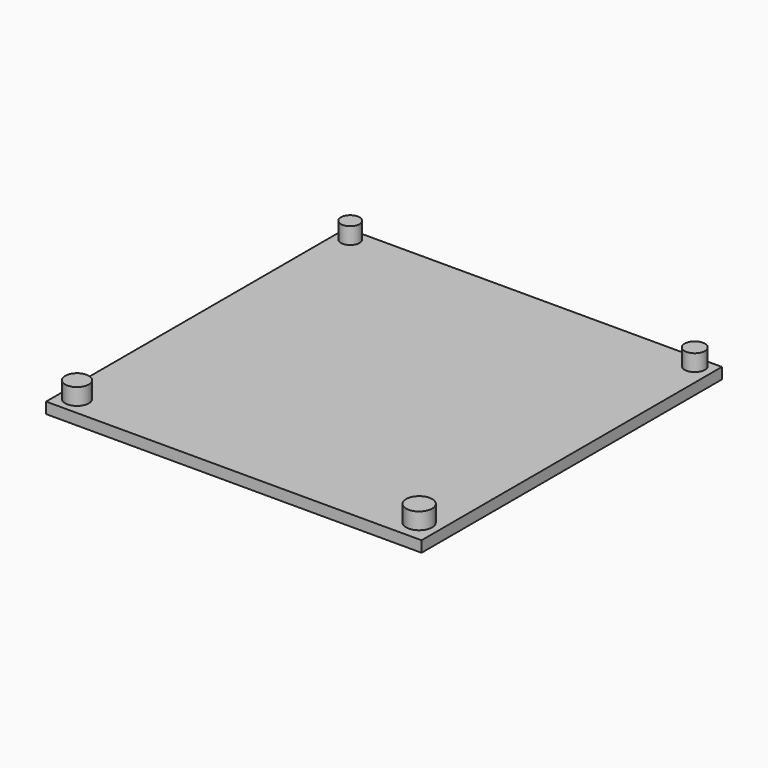
from build123d import *

# Parameters (mm, degrees)
F0_W     = 68
F0_H     = 68
F1_DEPTH = 2
F2_R     = 1.691554
F2_R_2   = 1.836909
F2_R_3   = 2.352396
F2_R_4   = 2.135878
F3_DEPTH = 3


with BuildPart() as f1:
    # F0 (on Top) → F1 (new body)
    with BuildSketch(Plane.XY):
        Rectangle(F0_W, F0_H)
    extrude(amount=F1_DEPTH)

    # F2 (on face) → F3 (join)
    with BuildSketch(Plane.XY.offset(2)):
        with Locations((-31.414855, 31.623706)):
            Circle(F2_R)
        with Locations((30.854221, 31.788003)):
            Circle(F2_R_2)
        with Locations((30.361326, -29.988179)):
            Circle(F2_R_3)
        with Locations((-31.08626, -30.64537)):
            Circle(F2_R_4)
    extrude(amount=F3_DEPTH)


solid = f1.part
